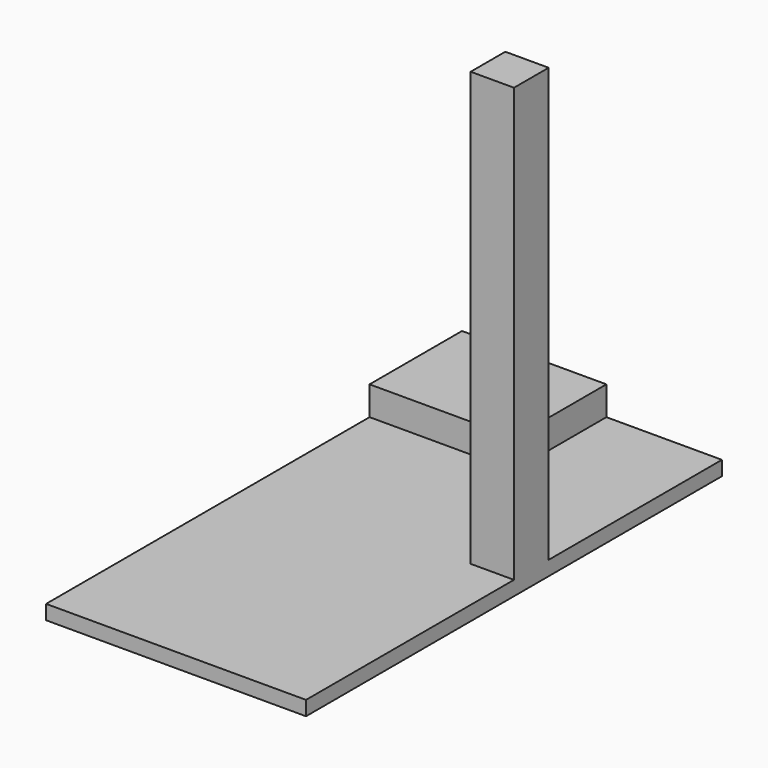
from build123d import *

# Parameters (mm, degrees)
F0_W     = 254
F0_H     = 203.2
F0_W_2   = 76.2
F0_H_2   = 76.2
F1_DEPTH = 25.4
F2_DEPTH = 50.8
F3_DEPTH = 762


with BuildPart() as f1:
    # F0 (on Top) → F1 (new body)
    with BuildSketch(Plane.XY):
        with Locations((127, -101.6)):
            Rectangle(F0_W, F0_H)
        Polygon((457.2, 0), (254, 0), (254, -203.2), (0, -203.2), (0, -914.4), (457.2, -914.4), (457.2, -457.2), (381, -457.2), (381, -381), (457.2, -381), align=None)
        with Locations((419.1, -419.1)):
            Rectangle(F0_W_2, F0_H_2)
    extrude(amount=-F1_DEPTH)

    # F0 (on Top) → F2 (join)
    with BuildSketch(Plane.XY):
        with Locations((127, -101.6)):
            Rectangle(F0_W, F0_H)
    extrude(amount=F2_DEPTH)

    # F0 (on Top) → F3 (join)
    with BuildSketch(Plane.XY):
        with Locations((419.1, -419.1)):
            Rectangle(F0_W_2, F0_H_2)
    extrude(amount=F3_DEPTH)


solid = f1.part
